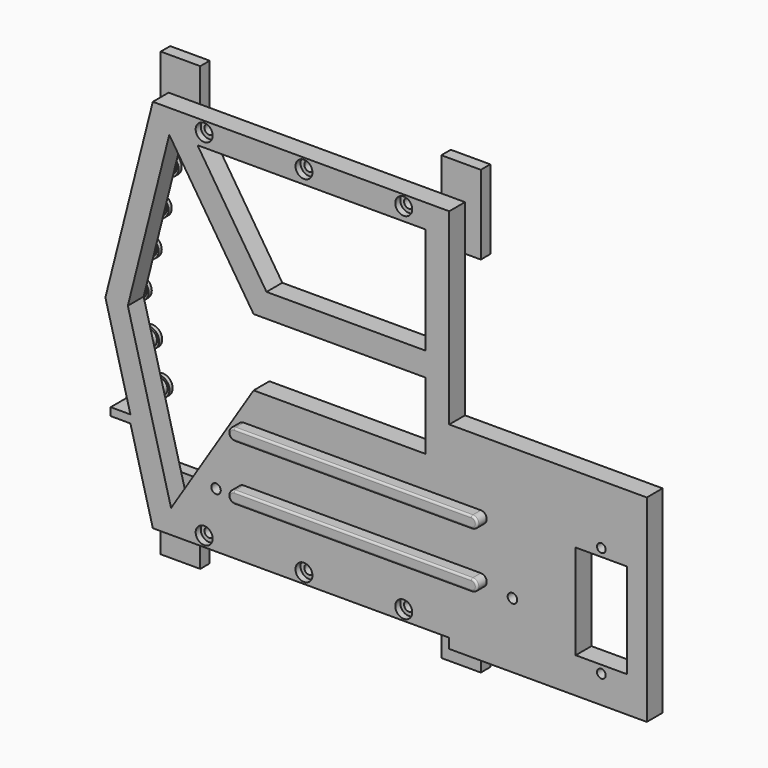
from build123d import *

# Parameters (mm, degrees)
SKETCH001_R         = 1.1
SKETCH001_W         = 13
SKETCH001_H         = 24
PAD_DEPTH           = 5
HOLE_D              = 2.4
HOLE_CBORE_D        = 4.3
HOLE_CBORE_DEPTH    = 1.6
SKETCH003_W         = 10
SKETCH003_H         = 20
PAD001_DEPTH        = 3
PAD002_DEPTH        = 3
SKETCH005_R         = 2.5
PAD003_DEPTH        = 3
SKETCH006_R         = 2.5
SKETCH006_R_2       = 2
POCKET_DEPTH        = 2
CHAMFER_SIZE        = 0.49
FILLET_R            = 0.5
HOLE001_D           = 2.4
HOLE001_DEPTH       = 25
HOLE001_CBORE_D     = 4.3
HOLE001_CBORE_DEPTH = 1.6


with BuildPart() as part:
    # Sketch001 → Pad (new body)
    with BuildSketch(Plane.XZ):
        Polygon((48.504088, 55), (-26.495912, 55), (-38.495912, 7.5), (-32.166242, -16.5), (-37.166242, -16.5), (-37.166242, -18.5), (-32.166242, -18.5), (-26.495912, -40), (48.504088, -40), (48.504088, -42.5), (98.504088, -42.5), (98.504088, 7.5), (48.504088, 7.5), align=None)
        with Locations((87.004088, -7.5)):
            Circle(SKETCH001_R, mode=Mode.SUBTRACT)
        with Locations((87.004141, -35.5)):
            Circle(SKETCH001_R, mode=Mode.SUBTRACT)
        Polygon((-22.334011, 49), (-32.818222, 7.5), (-21.873167, -34), (-0.995912, -1), (42.504088, -1), (42.504088, 7.5), (42.504088, 16), (-0.995912, 16), align=None, mode=Mode.SUBTRACT)
        Polygon((42.504088, 49), (-15.188963, 49), (2.269482, 22), (42.504088, 22), align=None, mode=Mode.SUBTRACT)
        with Locations((87.004088, -21.5)):
            Rectangle(SKETCH001_W, SKETCH001_H, mode=Mode.SUBTRACT)
    extrude(amount=PAD_DEPTH)

    # Hole (through all)
    with Locations(Plane.XZ.offset(5)):
        with Locations((-13.5, 52.391686), (11.75, 52.391686), (37, 52.391686), (-13.5, -37.391686), (11.75, -37.391686), (37, -37.391686)):
            CounterBoreHole(HOLE_D / 2, HOLE_CBORE_D / 2, HOLE_CBORE_DEPTH)

    # Sketch003 → Pad001 (join)
    with BuildSketch(Plane.XZ):
        with Locations((-23.495912, 53.5)):
            Rectangle(SKETCH003_W, SKETCH003_H)
        with Locations((47.504088, 53.5)):
            Rectangle(SKETCH003_W, SKETCH003_H)
        with Locations((-23.495912, -38.5)):
            Rectangle(SKETCH003_W, SKETCH003_H)
        with Locations((47.504088, -38.5)):
            Rectangle(SKETCH003_W, SKETCH003_H)
    extrude(amount=-PAD001_DEPTH)

    # Sketch004 (on Face6 of Pad001) → Pad002 (join)
    with BuildSketch(Plane.XZ.offset(5)):
        with BuildLine():
            ThreePointArc((-3.495912, -9), (-4.995912, -10.5), (-3.495912, -12))
            Line((-3.495912, -12), (56.504088, -12))
            ThreePointArc((56.504088, -12), (58.004088, -10.5), (56.504088, -9))
            Line((-3.495912, -9), (56.504088, -9))
        make_face()
        with BuildLine():
            ThreePointArc((-3.495912, -23), (-4.995912, -24.5), (-3.495912, -26))
            Line((-3.495912, -26), (56.504088, -26))
            ThreePointArc((56.504088, -26), (58.004088, -24.5), (56.504088, -23))
            Line((-3.495912, -23), (56.504088, -23))
        make_face()
    extrude(amount=PAD002_DEPTH)

    # Sketch005 → Pad003 (join)
    with BuildSketch(Plane(origin=(0, 0, 0), x_dir=(1, 0, 0), z_dir=(0, 1, 0))):
        with Locations((-30.382342, 12.5)):
            Circle(SKETCH005_R)
        with Locations((-33.019704, 2.5)):
            Circle(SKETCH005_R)
        with Locations((-35.657067, -7.5)):
            Circle(SKETCH005_R)
        with Locations((-33.130751, -17.5)):
            Circle(SKETCH005_R)
        with Locations((-30.604435, -27.5)):
            Circle(SKETCH005_R)
        with Locations((-28.078119, -37.5)):
            Circle(SKETCH005_R)
    extrude(amount=PAD003_DEPTH)

    # Sketch006 → Pocket (cut)
    with BuildSketch(Plane(origin=(0, 0, 0), x_dir=(1, 0, 0), z_dir=(0, 1, 0))):
        with Locations((-30.382342, 12.5)):
            Circle(SKETCH006_R)
        with Locations((-30.382342, 12.5)):
            Circle(SKETCH006_R_2, mode=Mode.SUBTRACT)
        with Locations((-33.019704, 2.5)):
            Circle(SKETCH006_R)
        with Locations((-33.019704, 2.5)):
            Circle(SKETCH006_R_2, mode=Mode.SUBTRACT)
        with Locations((-35.657067, -7.5)):
            Circle(SKETCH006_R)
        with Locations((-35.657067, -7.5)):
            Circle(SKETCH006_R_2, mode=Mode.SUBTRACT)
        with Locations((-33.130751, -17.5)):
            Circle(SKETCH006_R)
        with Locations((-33.130751, -17.5)):
            Circle(SKETCH006_R_2, mode=Mode.SUBTRACT)
        with Locations((-30.604435, -27.5)):
            Circle(SKETCH006_R)
        with Locations((-30.604435, -27.5)):
            Circle(SKETCH006_R_2, mode=Mode.SUBTRACT)
        with Locations((-28.078119, -37.5)):
            Circle(SKETCH006_R)
        with Locations((-28.078119, -37.5)):
            Circle(SKETCH006_R_2, mode=Mode.SUBTRACT)
    extrude(amount=POCKET_DEPTH, mode=Mode.SUBTRACT)

    # Chamfer
    chamfer_edges = [part.edges().sort_by_distance(p)[0] for p in [
        (-30.078119, 0, 37.5),
        (-32.604435, 0, 27.5),
        (-35.130751, 0, 17.5),
        (-37.657067, 0, 7.5),
        (-35.019704, 0, -2.5),
        (-32.382342, 0, -12.5),
    ]]
    chamfer(chamfer_edges, length=CHAMFER_SIZE)

    # Fillet
    fillet_edges = [part.edges().sort_by_distance(p)[0] for p in [
        (-4.995912, -8, -24.5),
        (26.504088, -8, -26),
        (58.004088, -8, -24.5),
        (26.504088, -8, -23),
        (-4.995912, -8, -10.5),
        (26.504088, -8, -12),
        (58.004088, -8, -10.5),
        (26.504088, -8, -9),
    ]]
    fillet(fillet_edges, radius=FILLET_R)

    # Hole001
    with Locations(Plane(origin=(0, 0, 0), x_dir=(1, 0, 0), z_dir=(0, 1, 0))):
        with Locations((-10.495912, 26), (64.504088, 26)):
            CounterBoreHole(HOLE001_D / 2, HOLE001_CBORE_D / 2, HOLE001_CBORE_DEPTH, depth=HOLE001_DEPTH)


solid = part.part
